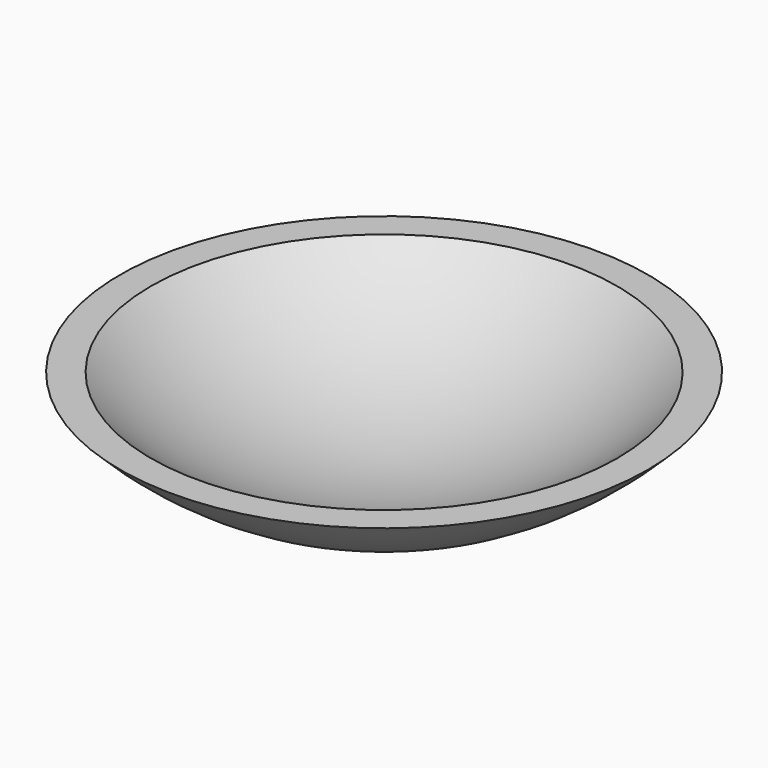
from build123d import *

# Parameters (mm, degrees)
BOX_W     = 20
BOX_H     = 20
BOX_DEPTH = 19


with BuildPart() as cube:
    # Box → Box (new body)
    with BuildSketch(Plane(origin=(-10, -10, -6), x_dir=(1, 0, 0), z_dir=(0, 0, 1))):
        with Locations((10, 10)):
            Rectangle(BOX_W, BOX_H)
    extrude(amount=BOX_DEPTH)


with BuildPart() as obj1:
    # Sphere001 → Sphere001 (revolve)
    with BuildSketch(Plane.XZ):
        with BuildLine():
            ThreePointArc((0, -8.1), (8.1, 0), (0, 8.1))
            Line((0, 8.1), (0, -8.1))
        make_face()
    revolve(axis=Axis((0, 0, 0), (0, 0, 1)))


with BuildPart() as contact_lens:
    # Sphere → Sphere (revolve)
    with BuildSketch(Plane.XZ):
        with BuildLine():
            ThreePointArc((0, -8.6), (8.6, 0), (0, 8.6))
            Line((0, 8.6), (0, -8.6))
        make_face()
    revolve(axis=Axis((0, 0, 0), (0, 0, 1)))

    # Cut: cut obj1
    add(obj1.part, mode=Mode.SUBTRACT)

    # Cut001: cut Cube
    add(cube.part, mode=Mode.SUBTRACT)


solid = contact_lens.part
